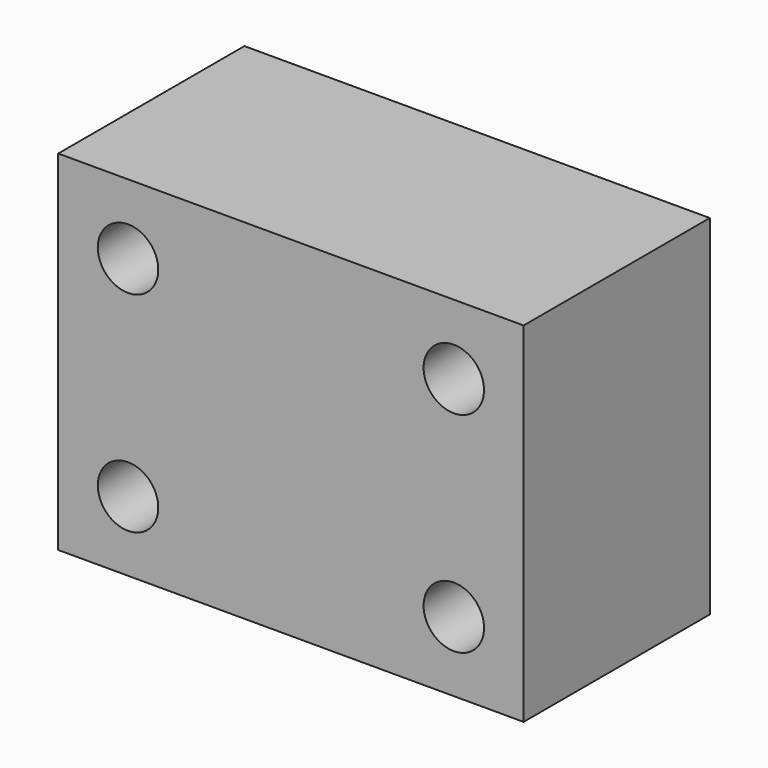
from build123d import *

# Parameters (mm, degrees)
F0_W     = 50.8
F0_H     = 38.1
F1_DEPTH = 25.4
F3_D     = 6.6


with BuildPart() as f1:
    # F0 (on Front) → F1 (new body)
    with BuildSketch(Plane.XZ):
        with Locations((25.4, 19.05)):
            Rectangle(F0_W, F0_H)
    extrude(amount=F1_DEPTH)

    # F3 (through all)
    with Locations(Plane.XZ.offset(25.4)):
        with Locations((7.62, 30.48), (43.18, 30.48), (7.62, 7.62), (43.18, 7.62)):
            Hole(F3_D / 2)


solid = f1.part
